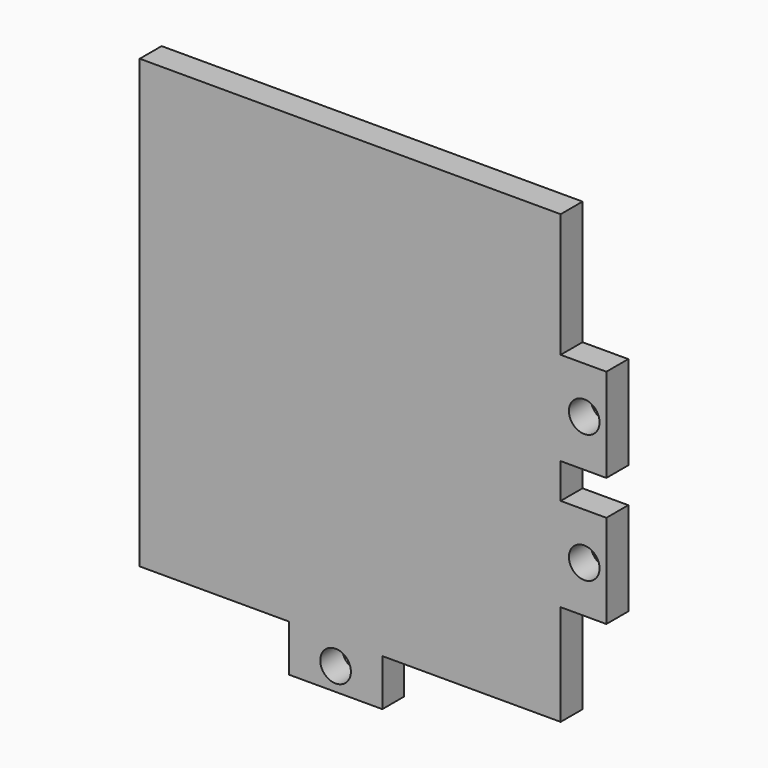
from build123d import *

# Parameters (mm, degrees)
F0_W      = 50.8
F0_H      = 50.8
F1_DEPTH  = 2.9718
F3_W      = 5.08
F3_H      = 50.8
F4_DEPTH  = 2.9728
F2_W      = 5.08
F2_H      = 10.16
F5_DEPTH  = 2.9718
F6_W      = 45.72
F6_H      = 2.2479
F7_DEPTH  = 2.9728
F8_R      = 1.6637
F9_DEPTH  = 2.9728
F10_W     = 10.16
F10_H     = 5.08
F10_R     = 1.6637
F11_DEPTH = 2.9718


with BuildPart() as f1:
    # F0 (on Front) → F1 (new body)
    with BuildSketch(Plane.XZ):
        Rectangle(F0_W, F0_H)
    extrude(amount=F1_DEPTH)

    # F3 (on face) → F4 (cut, through all)
    with BuildSketch(Plane.XZ.offset(2.9718)):
        with Locations((22.86, 0)):
            Rectangle(F3_W, F3_H)
    extrude(amount=-F4_DEPTH, mode=Mode.SUBTRACT)

    # F2 (on face) → F5 (join)
    with BuildSketch(Plane.XZ.offset(2.9718)):
        with Locations((22.745747, 6.871837)):
            Rectangle(F2_W, F2_H)
        with Locations((22.745747, -7.098163)):
            Rectangle(F2_W, F2_H)
    extrude(amount=-F5_DEPTH)

    # F6 (on face) → F7 (cut, through all)
    with BuildSketch(Plane.XZ.offset(2.9718)):
        with Locations((-2.54, -24.27605)):
            Rectangle(F6_W, F6_H)
    extrude(amount=-F7_DEPTH, mode=Mode.SUBTRACT)

    # F8 (on face) → F9 (cut, through all)
    with BuildSketch(Plane.XZ.offset(2.9718)):
        with Locations((22.88278, 6.871837)):
            Circle(F8_R)
        with Locations((22.88278, -7.098163)):
            Circle(F8_R)
    extrude(amount=-F9_DEPTH, mode=Mode.SUBTRACT)

    # F10 (on face) → F11 (join)
    with BuildSketch(Plane.XZ.offset(2.9718)):
        with Locations((-4.13004, -25.6921)):
            Rectangle(F10_W, F10_H)
        with Locations((-4.13004, -25.760639)):
            Circle(F10_R, mode=Mode.SUBTRACT)
    extrude(amount=-F11_DEPTH)


solid = f1.part
